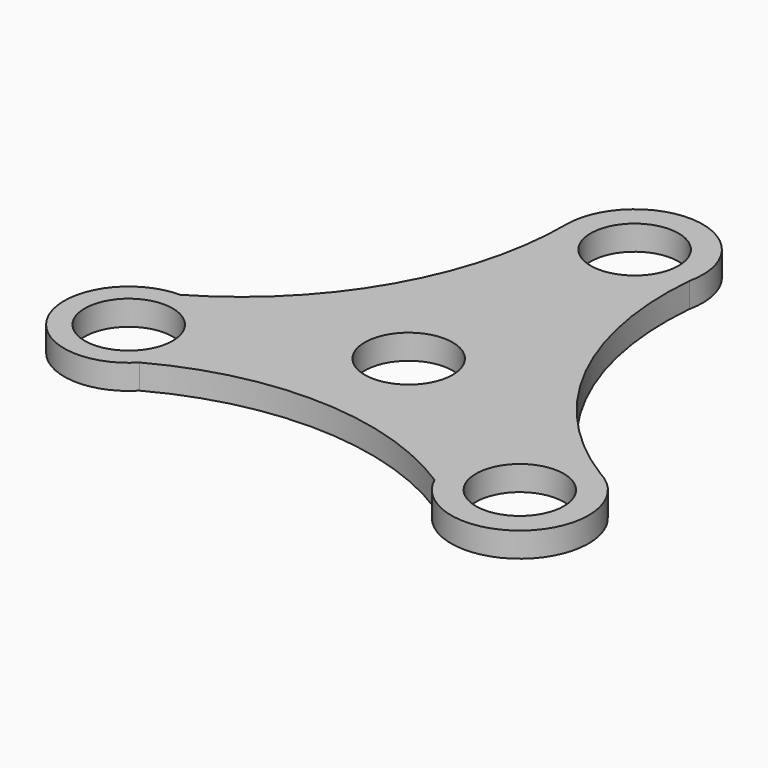
from build123d import *

# Parameters (mm, degrees)
F0_R     = 11.2522
F2_DEPTH = 6.35
F3_DEPTH = 6.35


with BuildPart() as f2:
    # F0 (on Top) → F2 (new body)
    with BuildSketch(Plane.XY):
        with BuildLine():
            ThreePointArc((-11.690817, 65.090521), (-22.647912, 23.556909), (-52.894301, -6.94317))
            ThreePointArc((-52.894301, -6.94317), (-68.099635, -29.944072), (-40.980367, -34.922929))
            ThreePointArc((-40.980367, -34.922929), (-1.688841, -25.706561), (36.828944, -37.754204))
            ThreePointArc((36.828944, -37.754204), (65.008077, -43.265125), (60.898233, -14.847824))
            ThreePointArc((60.898233, -14.847824), (31.044284, 17.814443), (22.80546, 61.290916))
            ThreePointArc((22.80546, 61.290916), (7.677868, 82.442972), (-11.690817, 65.090521))
        make_face()
        with Locations((-52.894301, -23.469558)):
            Circle(F0_R, mode=Mode.SUBTRACT)
        Circle(F0_R, mode=Mode.SUBTRACT)
        with Locations((52.873283, -30.514273)):
            Circle(F0_R, mode=Mode.SUBTRACT)
        with Locations((5.766576, 65.090521)):
            Circle(F0_R, mode=Mode.SUBTRACT)
    extrude(amount=F2_DEPTH)

    # F0 (on Top) → F3 (join)
    with BuildSketch(Plane.XY):
        with BuildLine():
            ThreePointArc((-11.690817, 65.090521), (-22.647912, 23.556909), (-52.894301, -6.94317))
            ThreePointArc((-52.894301, -6.94317), (-68.099635, -29.944072), (-40.980367, -34.922929))
            ThreePointArc((-40.980367, -34.922929), (-1.688841, -25.706561), (36.828944, -37.754204))
            ThreePointArc((36.828944, -37.754204), (65.008077, -43.265125), (60.898233, -14.847824))
            ThreePointArc((60.898233, -14.847824), (31.044284, 17.814443), (22.80546, 61.290916))
            ThreePointArc((22.80546, 61.290916), (7.677868, 82.442972), (-11.690817, 65.090521))
        make_face()
        with Locations((-52.894301, -23.469558)):
            Circle(F0_R, mode=Mode.SUBTRACT)
        Circle(F0_R, mode=Mode.SUBTRACT)
        with Locations((52.873283, -30.514273)):
            Circle(F0_R, mode=Mode.SUBTRACT)
        with Locations((5.766576, 65.090521)):
            Circle(F0_R, mode=Mode.SUBTRACT)
    extrude(amount=F3_DEPTH)


solid = f2.part
